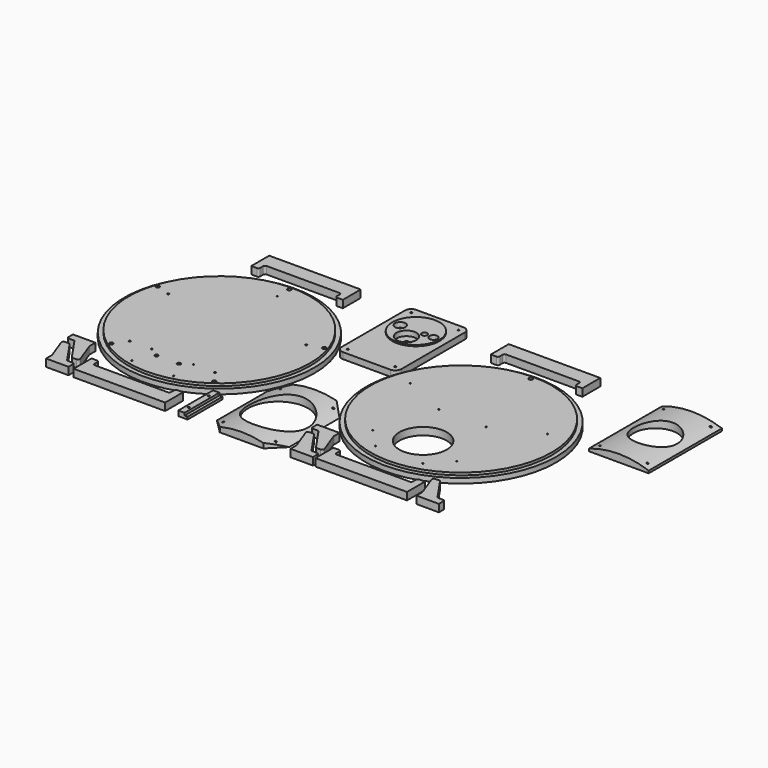
from build123d import *

# Parameters (mm, degrees)
SKETCH058_R              = 152.5
PAD_DEPTH                = 8
SKETCH059_R              = 145.5
PAD017_DEPTH             = 4
SKETCH003_R              = 38
POCKET_DEPTH             = 12.001
SKETCH054_R              = 3
SKETCH054_R_2            = 1
POCKET019_DEPTH          = 6
PAD010_DEPTH             = 12
FILLET_R                 = 3
BODY002_PLACEMENT_ANGLE  = 90
PAD005_DEPTH             = 12
FILLET003_R              = 3
SKETCH025_R              = 152.5
PAD015_DEPTH             = 8
SKETCH057_R              = 145.5
PAD016_DEPTH             = 4
SKETCH052_R              = 3
SKETCH052_R_2            = 1.5
SKETCH052_R_3            = 1
SKETCH052_R_4            = 2.75
POCKET018_DEPTH          = 12.001
PAD008_DEPTH             = 147
SKETCH029_R              = 35
POCKET004_DEPTH          = 12.001
SKETCH049_R              = 1.5
POCKET013_DEPTH          = 12.001
PAD009_DEPTH             = 147
SKETCH032_R              = 48
POCKET005_DEPTH          = 12.060939
SKETCH050_R              = 1.5
POCKET014_DEPTH          = 12.060939
SKETCH037_W              = 96
SKETCH037_H              = 147
PAD011_DEPTH             = 10
SKETCH038_R              = 37.9
PAD012_DEPTH             = 2
SKETCH039_R              = 16
POCKET006_DEPTH          = 8
SKETCH040_R              = 3
POCKET007_DEPTH          = 4.001
SKETCH041_R              = 8.5
POCKET008_DEPTH          = 8
SKETCH042_R              = 6
POCKET009_DEPTH          = 4.001
SKETCH043_R              = 4.5
SKETCH043_R_2            = 6.5
POCKET010_DEPTH          = 9
SKETCH044_R              = 4
SKETCH044_R_2            = 3
POCKET011_DEPTH          = 3.001
SKETCH048_R              = 1.5
SKETCH048_R_2            = 1
POCKET012_DEPTH          = 10.001
FILLET004_R              = 10
PAD013_DEPTH             = 70
SKETCH051_R              = 1.5
POCKET015_DEPTH          = 8.001
BODY014_PLACEMENT_ANGLE  = 180
CLONE005_PLACEMENT_ANGLE = 90
BODY015_PLACEMENT_ANGLE  = 90
CLONE006_PLACEMENT_ANGLE = 180
CLONE010_PLACEMENT_ANGLE = 180


with BuildPart() as top:
    # Sketch058 → Pad (new body)
    with BuildSketch(Plane.XY):
        Circle(SKETCH058_R)
    extrude(amount=PAD_DEPTH)

    # Sketch059 (on DatumPlane) → Pad017 (join)
    with BuildSketch(Plane.XY.offset(8)):
        Circle(SKETCH059_R)
    extrude(amount=PAD017_DEPTH)

    # Sketch003 → Pocket (cut, through all)
    with BuildSketch(Plane.XY):
        with Locations((0, -76.25)):
            Circle(SKETCH003_R)
    extrude(amount=POCKET_DEPTH, mode=Mode.SUBTRACT)

    # Sketch054 → Pocket019 (cut)
    with BuildSketch(Plane.XY.offset(12)):
        with Locations((0, 140)):
            Circle(SKETCH054_R)
        with Locations((109.993235, 35.738968)):
            Circle(SKETCH054_R_2)
        with Locations((67.651258, -93.113968)):
            Circle(SKETCH054_R_2)
        with Locations((-67.651258, -93.113968)):
            Circle(SKETCH054_R_2)
        with Locations((-109.993235, 35.738968)):
            Circle(SKETCH054_R_2)
        with Locations((-38, 2.75)):
            Circle(SKETCH054_R_2)
        with Locations((38, 2.75)):
            Circle(SKETCH054_R_2)
        with Locations((-38, -124.25)):
            Circle(SKETCH054_R_2)
        with Locations((38, -124.25)):
            Circle(SKETCH054_R_2)
    extrude(amount=-POCKET019_DEPTH, mode=Mode.SUBTRACT)


with BuildPart() as top_1:
    # Body placement: moved
    add(top.part.moved(Location((543.811384, -199.85457, 0))))


with BuildPart() as strut:
    # Sketch035 → Pad010 (new body)
    with BuildSketch(Plane.XY):
        Polygon((-512.874824, -64.741647), (-512.874824, -211.741647), (-476.874824, -211.741647), (-476.874824, -199.741647), (-488.874824, -199.741647), (-488.874824, -76.741647), (-476.874824, -76.741647), (-476.874824, -64.741647), align=None)
    extrude(amount=PAD010_DEPTH)

    # Fillet
    fillet_edges = [strut.edges().sort_by_distance(p)[0] for p in [
        (-476.874824, -199.741647, 6),
        (-488.874824, -199.741647, 6),
        (-476.874824, -76.741647, 6),
        (-488.874824, -76.741647, 6),
    ]]
    fillet(fillet_edges, radius=FILLET_R)


with BuildPart() as strut_1:
    # Body002 placement: moved
    add(strut.part.moved(Location((14.512412, 116.017967, 0))).rotate(Axis((14.512412, 116.017967, 0), (0, 0, 1)), BODY002_PLACEMENT_ANGLE))


with BuildPart() as stand:
    # Sketch024 → Pad005 (new body)
    with BuildSketch(Plane.XY):
        Polygon((-477.730438, -36.528759), (-451.730438, -74.528759), (-439.730438, -74.528759), (-439.730438, -86.528759), (-475.730438, -86.528759), (-475.730438, -74.528759), (-489.730438, -36.528759), align=None)
    extrude(amount=PAD005_DEPTH)

    # Fillet003
    fillet003_edges = [stand.edges().sort_by_distance(p)[0] for p in [
        (-439.730438, -74.528759, 6),
        (-451.730438, -74.528759, 6),
        (-477.730438, -36.528759, 6),
        (-489.730438, -36.528759, 6),
        (-475.730438, -74.528759, 6),
    ]]
    fillet(fillet003_edges, radius=FILLET003_R)


with BuildPart() as stand_1:
    # Body004 placement: moved
    add(stand.part.moved(Location((903.073364, -310.12608, 0))))


with BuildPart() as bottom:
    # Sketch025 → Pad015 (new body)
    with BuildSketch(Plane.XY):
        with Locations((0.142028, -323.737579)):
            Circle(SKETCH025_R)
    extrude(amount=PAD015_DEPTH)

    # Sketch057 (on DatumPlane) → Pad016 (join)
    with BuildSketch(Plane.XY.offset(8)):
        with Locations((0.142028, -323.737579)):
            Circle(SKETCH057_R)
    extrude(amount=PAD016_DEPTH)

    # Sketch052 → Pocket018 (cut, through all)
    with BuildSketch(Plane.XY.offset(12)):
        with Locations((0.142028, -183.237579)):
            Circle(SKETCH052_R)
        with Locations((133.765469, -280.320691)):
            Circle(SKETCH052_R)
        with Locations((110.940112, -287.737099)):
            Circle(SKETCH052_R_2)
        with Locations((-133.481413, -280.320691)):
            Circle(SKETCH052_R)
        with Locations((-110.656056, -287.737099)):
            Circle(SKETCH052_R_2)
        with Locations((-82.4418, -437.404467)):
            Circle(SKETCH052_R)
        with Locations((-68.334954, -417.988059)):
            Circle(SKETCH052_R_2)
        with Locations((82.725856, -437.404467)):
            Circle(SKETCH052_R)
        with Locations((68.61901, -417.988059)):
            Circle(SKETCH052_R_2)
        with Locations((-33.357972, -417.512577)):
            Circle(SKETCH052_R_3)
        with Locations((-33.357972, -457.512577)):
            Circle(SKETCH052_R_3)
        with Locations((33.642028, -457.512577)):
            Circle(SKETCH052_R_3)
        with Locations((33.642028, -417.512577)):
            Circle(SKETCH052_R_3)
        with Locations((0.142028, -207.237579)):
            Circle(SKETCH052_R_3)
        with Locations((-17.857972, -427.512577)):
            Circle(SKETCH052_R_4)
        with Locations((18.142028, -427.512577)):
            Circle(SKETCH052_R_4)
    extrude(amount=-POCKET018_DEPTH, mode=Mode.SUBTRACT)


with BuildPart() as bottom_1:
    # Body005 placement: moved
    add(bottom.part.moved(Location((155.632778, 123.76657, 0))))


with BuildPart() as obj1:
    # Sketch028 → Pad008 (new body)
    with BuildSketch(Plane.XZ):
        with BuildLine():
            Line((-327.151421, 0), (-231.151421, 0))
            Line((-231.151421, 0), (-231.151421, 3.854468))
            ThreePointArc((-231.151421, 3.854468), (-279.151421, 12), (-327.151421, 3.854468))
            Line((-327.151421, 0), (-327.151421, 3.854468))
        make_face()
    extrude(amount=PAD008_DEPTH)

    # Sketch029 (on DatumPlane) → Pocket004 (cut, through all)
    with BuildSketch(Plane(origin=(0, 0, 0), x_dir=(1, 0, 0), z_dir=(0, 0, -1))):
        with Locations((-279.151421, 73.5)):
            Circle(SKETCH029_R)
    extrude(amount=-POCKET004_DEPTH, mode=Mode.SUBTRACT)

    # Sketch049 (on Face1 of Pocket004) → Pocket013 (cut, through all)
    with BuildSketch(Plane(origin=(0, 0, 0), x_dir=(1, 0, 0), z_dir=(0, 0, -1))):
        with Locations((-317.151421, 137)):
            Circle(SKETCH049_R)
        with Locations((-241.151421, 137)):
            Circle(SKETCH049_R)
        with Locations((-317.151421, 10)):
            Circle(SKETCH049_R)
        with Locations((-241.151421, 10)):
            Circle(SKETCH049_R)
    extrude(amount=-POCKET013_DEPTH, mode=Mode.SUBTRACT)


with BuildPart() as obj1_1:
    # Body006 placement: moved
    add(obj1.part.moved(Location((1031.698703, 2.700167, -3.949142))))


with BuildPart() as sub:
    # Sketch034 → Pad009 (new body)
    with BuildSketch(Plane.XZ):
        with BuildLine():
            Line((-337.151421, 0), (-221.151421, 0))
            ThreePointArc((-221.151421, 0), (-279.151421, 12.059939), (-337.151421, 0))
        make_face()
    extrude(amount=PAD009_DEPTH)

    # Sketch032 → Pocket005 (cut, through all)
    with BuildSketch(Plane(origin=(0, 0, 0), x_dir=(1, 0, 0), z_dir=(0, 0, -1))):
        with Locations((-279.151421, 73.5)):
            Circle(SKETCH032_R)
        Polygon((-314.151421, 147), (-337.151421, 124), (-337.151421, 147), align=None)
        Polygon((-244.151421, 147), (-221.151421, 124), (-221.151421, 147), align=None)
        Polygon((-337.151421, 23), (-314.151421, 0), (-337.151421, 0), align=None)
        Polygon((-221.151421, 23), (-244.151421, 0), (-221.151421, 0), align=None)
    extrude(amount=-POCKET005_DEPTH, mode=Mode.SUBTRACT)

    # Sketch050 (on Face1 of Pocket005) → Pocket014 (cut, through all)
    with BuildSketch(Plane(origin=(0, 0, 0), x_dir=(1, 0, 0), z_dir=(0, 0, -1))):
        with Locations((-321.40878, 131.257359)):
            Circle(SKETCH050_R)
        with Locations((-236.894062, 15.742641)):
            Circle(SKETCH050_R)
        with Locations((-321.40878, 15.742641)):
            Circle(SKETCH050_R)
        with Locations((-236.894062, 131.257359)):
            Circle(SKETCH050_R)
    extrude(amount=-POCKET014_DEPTH, mode=Mode.SUBTRACT)


with BuildPart() as sub_1:
    # Body007 placement: moved
    add(sub.part.moved(Location((629.955139, -252.210281, 0))))


with BuildPart() as obj2:
    # Sketch037 → Pad011 (new body)
    with BuildSketch(Plane.XY):
        with Locations((-206.727857, -364.966475)):
            Rectangle(SKETCH037_W, SKETCH037_H)
    extrude(amount=PAD011_DEPTH)

    # Sketch038 (on Face6 of Pad011) → Pad012 (join)
    with BuildSketch(Plane.XY.offset(10)):
        with Locations((-206.727857, -339.466475)):
            Circle(SKETCH038_R)
    extrude(amount=PAD012_DEPTH)

    # Sketch039 (on Face8 of Pad012) → Pocket006 (cut)
    with BuildSketch(Plane.XY.offset(12)):
        with Locations((-206.727857, -358.416475)):
            Circle(SKETCH039_R)
    extrude(amount=-POCKET006_DEPTH, mode=Mode.SUBTRACT)

    # Sketch040 (on Face10 of Pocket006) → Pocket007 (cut, through all)
    with BuildSketch(Plane.XY.offset(4)):
        with Locations((-206.727857, -358.416475)):
            Circle(SKETCH040_R)
    extrude(amount=-POCKET007_DEPTH, mode=Mode.SUBTRACT)

    # Sketch041 (on Face8 of Pad012) → Pocket008 (cut)
    with BuildSketch(Plane.XY.offset(12)):
        with Locations((-231.877857, -339.466475)):
            Circle(SKETCH041_R)
    extrude(amount=-POCKET008_DEPTH, mode=Mode.SUBTRACT)

    # Sketch042 (on Face13 of Pocket008) → Pocket009 (cut, through all)
    with BuildSketch(Plane.XY.offset(4)):
        with Locations((-231.877857, -339.466475)):
            Circle(SKETCH042_R)
    extrude(amount=-POCKET009_DEPTH, mode=Mode.SUBTRACT)

    # Sketch043 (on Face8 of Pad012) → Pocket010 (cut)
    with BuildSketch(Plane.XY.offset(12)):
        with Locations((-192.827857, -339.466475)):
            Circle(SKETCH043_R)
        with Locations((-178.577857, -339.466475)):
            Circle(SKETCH043_R_2)
    extrude(amount=-POCKET010_DEPTH, mode=Mode.SUBTRACT)

    # Sketch044 (on Face18 of Pocket010) → Pocket011 (cut, through all)
    with BuildSketch(Plane.XY.offset(3)):
        with Locations((-178.577857, -339.466475)):
            Circle(SKETCH044_R)
        with Locations((-192.827857, -339.466475)):
            Circle(SKETCH044_R_2)
    extrude(amount=-POCKET011_DEPTH, mode=Mode.SUBTRACT)

    # Sketch048 (on Face5 of Pocket011) → Pocket012 (cut, through all)
    with BuildSketch(Plane.XY.offset(10)):
        with Locations((-244.727857, -301.466475)):
            Circle(SKETCH048_R)
        with Locations((-168.727857, -301.466475)):
            Circle(SKETCH048_R)
        with Locations((-168.727857, -428.466475)):
            Circle(SKETCH048_R)
        with Locations((-244.727857, -428.466475)):
            Circle(SKETCH048_R)
        with Locations((-214.611015, -276.454363)):
            Circle(SKETCH048_R_2)
        with Locations((-201.837814, -276.122591)):
            Circle(SKETCH048_R)
    extrude(amount=-POCKET012_DEPTH, mode=Mode.SUBTRACT)

    # Fillet004
    fillet004_edges = [obj2.edges().sort_by_distance(p)[0] for p in [
        (-254.727857, -438.466475, 5),
        (-158.727857, -438.466475, 5),
        (-254.727857, -291.466475, 5),
        (-158.727857, -291.466475, 5),
    ]]
    fillet(fillet004_edges, radius=FILLET004_R)


with BuildPart() as obj2_1:
    # Body010 placement: moved
    add(obj2.part.moved(Location((556.995708, 290.856842, 0))))


with BuildPart() as obj3:
    # Sketch045 → Pad013 (new body)
    with BuildSketch(Plane.XZ):
        Polygon((-175.240617, 0), (-190.240617, 0), (-190.240617, 4), (-185.240617, 4), (-185.240617, 8), (-175.240617, 8), align=None)
    extrude(amount=PAD013_DEPTH)

    # Sketch051 (on Face1 of Pad013) → Pocket015 (cut, through all)
    with BuildSketch(Plane(origin=(0, 0, 8), x_dir=(-1, 0, 0), z_dir=(0, 0, 1))):
        with Locations((180.240617, 55)):
            Circle(SKETCH051_R)
        with Locations((180.240617, 15)):
            Circle(SKETCH051_R)
    extrude(amount=-POCKET015_DEPTH, mode=Mode.SUBTRACT)


with BuildPart() as obj3_1:
    # Body014 placement: moved
    add(obj3.part.moved(Location((90.219782, -397.2753, 0))).rotate(Axis((90.219782, -397.2753, 0), (0, 0, 1)), BODY014_PLACEMENT_ANGLE))


with BuildPart() as obj3_2:
    # Clone005 placement: moved
    add(obj3_1.part.moved(Location((240.978625, 114.989494, 0))).rotate(Axis((240.978625, 114.989494, 0), (0, 0, -1)), CLONE005_PLACEMENT_ANGLE))


with BuildPart() as obj3_3:
    # Body015 placement: moved
    add(obj3_2.part.moved(Location((97.197754, -241.029716, 0))).rotate(Axis((97.197754, -241.029716, 0), (0, 0, 1)), BODY015_PLACEMENT_ANGLE))


with BuildPart() as strut001:
    # Clone base: copy of Strut
    add(strut_1.part)


with BuildPart() as strut001_1:
    # Clone placement: moved
    add(strut001.part.moved(Location((388.378433, -0.025452, 0))))


with BuildPart() as strut002:
    # Clone006 base: copy of Strut
    add(strut_1.part)


with BuildPart() as strut002_1:
    # Clone006 placement: moved
    add(strut002.part.moved(Location((305.125465, -400.693825, 0))).rotate(Axis((305.125465, -400.693825, 0), (0, 0, -1)), CLONE006_PLACEMENT_ANGLE))


with BuildPart() as strut003:
    # Clone007 base: copy of Strut002
    add(strut002_1.part)


with BuildPart() as strut003_1:
    # Clone007 placement: moved
    add(strut003.part.moved(Location((384.601692, 0, 0))))


with BuildPart() as stand001:
    # Clone008 base: copy of Stand
    add(stand_1.part)


with BuildPart() as stand001_1:
    # Clone008 placement: moved
    add(stand001.part.moved(Location((202.685608, -0.556549, 0))))


with BuildPart() as stand002:
    # Clone009 base: copy of Stand
    add(stand_1.part)


with BuildPart() as stand002_1:
    # Clone009 placement: moved
    add(stand002.part.moved(Location((-392.452332, 0, 0))))


with BuildPart() as stand003:
    # Clone010 base: copy of Stand
    add(stand_1.part)


with BuildPart() as stand003_1:
    # Clone010 placement: moved
    add(stand003.part.moved(Location((875.713745, -721.182053, 0))).rotate(Axis((875.713745, -721.182053, 0), (0, 0, 1)), CLONE010_PLACEMENT_ANGLE))


with BuildPart() as stand004:
    # Clone011 base: copy of Stand003
    add(stand003_1.part)


with BuildPart() as stand004_1:
    # Clone011 placement: moved
    add(stand004.part.moved(Location((-391.956833, 0, 0))))


solid = Compound([top_1.part, strut_1.part, stand_1.part, bottom_1.part, obj1_1.part, sub_1.part, obj2_1.part, obj3_3.part, strut001_1.part, strut002_1.part, strut003_1.part, stand001_1.part, stand002_1.part, stand003_1.part, stand004_1.part])
